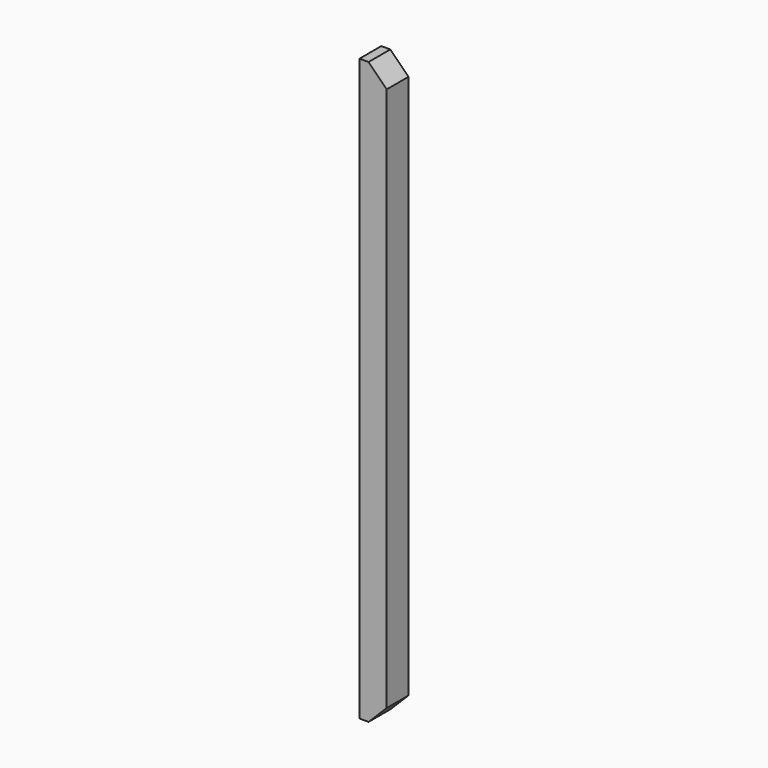
from build123d import *

# Parameters (mm, degrees)
F0_W     = 38.1
F0_H     = 812.8
F1_DEPTH = 38.1
F3_DEPTH = 38.101


with BuildPart() as f1:
    # F0 (on Front) → F1 (new body)
    with BuildSketch(Plane.XZ):
        Rectangle(F0_W, F0_H)
    extrude(amount=F1_DEPTH)

    # F2 (on face) → F3 (cut, through all)
    with BuildSketch(Plane.XZ.offset(38.1)):
        Polygon((19.05, -406.4), (19.05, -381), (-6.35, -406.4), align=None)
        Polygon((19.05, 406.4), (-6.35, 406.4), (19.05, 381), align=None)
    extrude(amount=-F3_DEPTH, mode=Mode.SUBTRACT)


solid = f1.part
